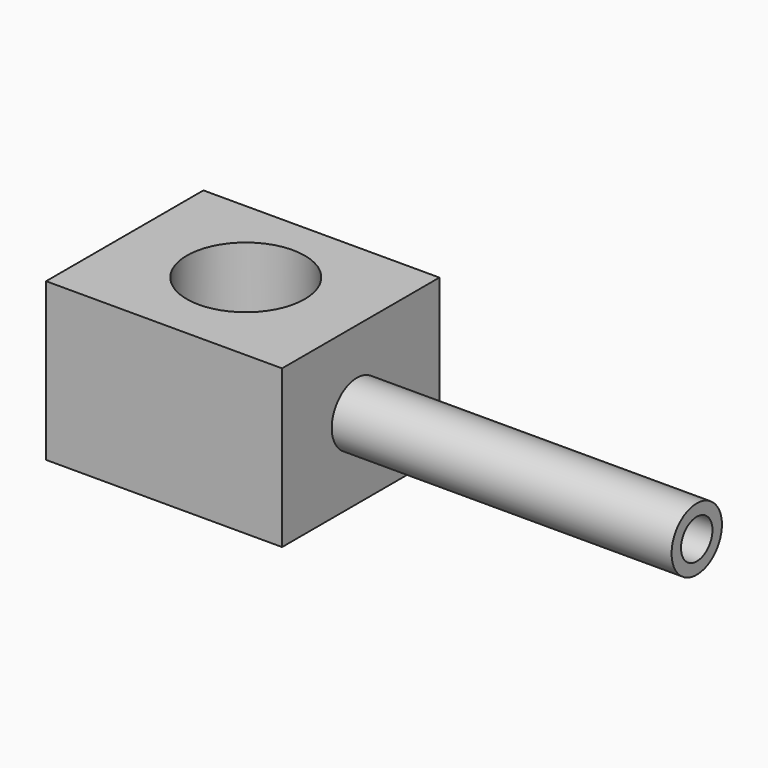
from build123d import *

# Parameters (mm, degrees)
F0_W     = 30
F0_H     = 20
F1_DEPTH = 25
F2_R     = 7.5
F3_DEPTH = 26
F4_W     = 30
F4_H     = 25
F5_DEPTH = 3
F8_START = 25.6
F7_R     = 4
F8_DEPTH = 47.6
F9_START = 17.7
F6_R     = 2.5
F9_DEPTH = 70.5


with BuildPart() as f1:
    # F0 (on Front) → F1 (new body)
    with BuildSketch(Plane.XZ):
        with Locations((15, 10)):
            Rectangle(F0_W, F0_H)
    extrude(amount=F1_DEPTH)

    # F2 (on Top) → F3 (cut)
    with BuildSketch(Plane.XY):
        with Locations((14.9655956775, -11.9724776596)):
            Circle(F2_R)
    extrude(amount=F3_DEPTH, mode=Mode.SUBTRACT)

    # F4 (on Top) → F5 (join)
    with BuildSketch(Plane.XY):
        with Locations((15, -12.5)):
            Rectangle(F4_W, F4_H)
    extrude(amount=F5_DEPTH)

    # F7 (on Right) → F8 (join)
    with BuildSketch(Plane.YZ.offset(F8_START)):
        with Locations((-13.1077989936, 10.114679113)):
            Circle(F7_R)
    extrude(amount=F8_DEPTH)

    # F6 (on Right) → F9 (cut)
    with BuildSketch(Plane.YZ.offset(F9_START)):
        with Locations((-13.1077989936, 10.114679113)):
            Circle(F6_R)
    extrude(amount=F9_DEPTH, mode=Mode.SUBTRACT)


solid = f1.part
